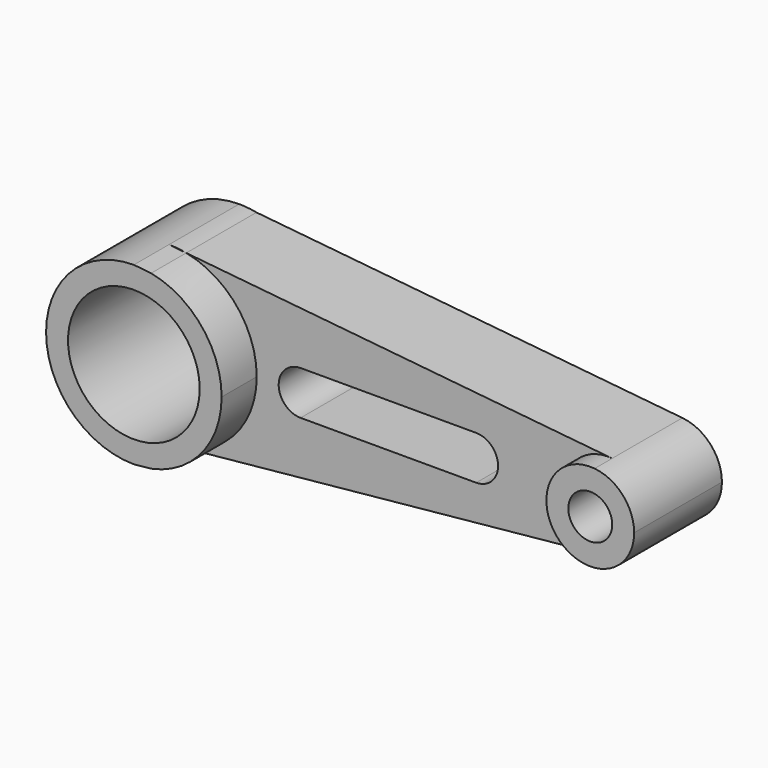
from build123d import *

# Parameters (mm, degrees)
F0_R     = 19.05
F1_DEPTH = 38.1
F0_R_2   = 6.35
F2_DEPTH = 31.75
F3_DEPTH = 25.4


with BuildPart() as f1:
    # F0 (on Front) → F1 (new body)
    with BuildSketch(Plane.XZ):
        with BuildLine():
            ThreePointArc((25.4, 0), (19.650648, 16.093851), (5.005352, 24.901937))
            Line((5.005352, 24.901937), (0, 25.4))
            ThreePointArc((0, 25.4), (-25.4, 0), (0, -25.4))
            Line((0, -25.4), (5.005352, -24.901937))
            ThreePointArc((5.005352, -24.901937), (19.650648, -16.093851), (25.4, 0))
        make_face()
        Circle(F0_R, mode=Mode.SUBTRACT)
    extrude(amount=F1_DEPTH)

    # F0 (on Front) → F2 (join)
    with BuildSketch(Plane.XZ):
        with BuildLine():
            ThreePointArc((25.4, 0), (19.650648, 16.093851), (5.005352, 24.901937))
            Line((5.005352, 24.901937), (0, 25.4))
            ThreePointArc((0, 25.4), (-25.4, 0), (0, -25.4))
            Line((0, -25.4), (5.005352, -24.901937))
            ThreePointArc((5.005352, -24.901937), (19.650648, -16.093851), (25.4, 0))
        make_face()
        Circle(F0_R, mode=Mode.SUBTRACT)
        with BuildLine():
            ThreePointArc((128.257518, -12.637589), (136.414363, -8.52407), (139.7, 0))
            ThreePointArc((139.7, 0), (136.414363, 8.52407), (128.257518, 12.637589))
            ThreePointArc((128.257518, 12.637589), (114.3, 0), (128.257518, -12.637589))
        make_face()
        with Locations((127, 0)):
            Circle(F0_R_2, mode=Mode.SUBTRACT)
    extrude(amount=F2_DEPTH)

    # F0 (on Front) → F3 (join)
    with BuildSketch(Plane.XZ):
        with BuildLine():
            ThreePointArc((128.257518, -12.637589), (136.414363, -8.52407), (139.7, 0))
            ThreePointArc((139.7, 0), (136.414363, 8.52407), (128.257518, 12.637589))
            ThreePointArc((128.257518, 12.637589), (114.3, 0), (128.257518, -12.637589))
        make_face()
        with Locations((127, 0)):
            Circle(F0_R_2, mode=Mode.SUBTRACT)
        with BuildLine():
            ThreePointArc((128.257518, -12.637589), (114.3, 0), (128.257518, 12.637589))
            Line((128.257518, 12.637589), (5.005352, 24.901937))
            ThreePointArc((5.005352, 24.901937), (19.650648, 16.093851), (25.4, 0))
            ThreePointArc((25.4, 0), (19.650648, -16.093851), (5.005352, -24.901937))
            Line((5.005352, -24.901937), (128.257518, -12.637589))
        make_face()
        with BuildLine():
            ThreePointArc((38.1, -6.35), (31.75, 0), (38.1, 6.35))
            Line((38.1, 6.35), (88.9, 6.35))
            ThreePointArc((88.9, 6.35), (95.25, 0), (88.9, -6.35))
            Line((88.9, -6.35), (38.1, -6.35))
        make_face(mode=Mode.SUBTRACT)
        with BuildLine():
            Line((0, 25.4), (5.005352, 24.901937))
            ThreePointArc((5.005352, 24.901937), (2.515035, 25.275177), (0, 25.4))
        make_face()
        with BuildLine():
            ThreePointArc((25.4, 0), (19.650648, 16.093851), (5.005352, 24.901937))
            Line((5.005352, 24.901937), (0, 25.4))
            ThreePointArc((0, 25.4), (-25.4, 0), (0, -25.4))
            Line((0, -25.4), (5.005352, -24.901937))
            ThreePointArc((5.005352, -24.901937), (19.650648, -16.093851), (25.4, 0))
        make_face()
        Circle(F0_R, mode=Mode.SUBTRACT)
        with BuildLine():
            ThreePointArc((0, -25.4), (2.515035, -25.275177), (5.005352, -24.901937))
            Line((5.005352, -24.901937), (0, -25.4))
        make_face()
    extrude(amount=F3_DEPTH)


solid = f1.part
